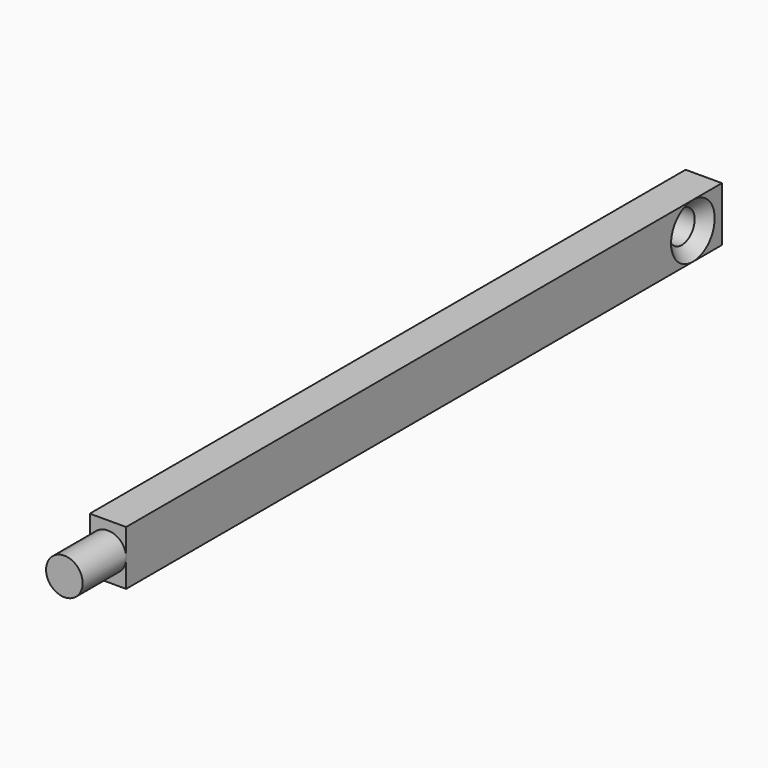
from build123d import *

# Parameters (mm, degrees)
F0_W           = 3.175
F0_H           = 4.7625
F1_DEPTH       = 65.0875
F2_R           = 1.6002
F3_DEPTH       = 4.7625
F5_D           = 2.8194
F5_CSINK_D     = 4.7625
F5_CSINK_ANGLE = 90


with BuildPart() as f1:
    # F0 (on Front) → F1 (new body)
    with BuildSketch(Plane.XZ):
        with Locations((25.211968, 17.917172)):
            Rectangle(F0_W, F0_H)
    extrude(amount=F1_DEPTH)

    # F2 (on face) → F3 (join)
    with BuildSketch(Plane.XZ.offset(65.0875)):
        with Locations((25.211968, 17.917172)):
            Circle(F2_R)
    extrude(amount=F3_DEPTH)

    # F5 (through all)
    with Locations(Plane.YZ.offset(26.799468)):
        with Locations((-3.175, 17.917172)):
            CounterSinkHole(F5_D / 2, F5_CSINK_D / 2, counter_sink_angle=F5_CSINK_ANGLE)


solid = f1.part
